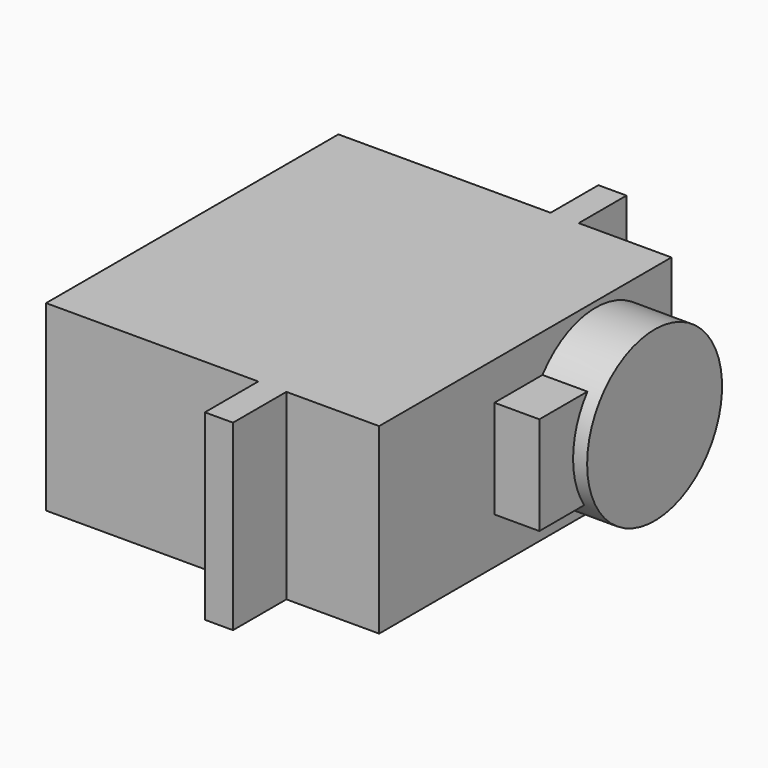
from build123d import *

# Parameters (mm, degrees)
BOX010_W                  = 10
BOX010_H                  = 10
BOX010_DEPTH              = 7
CYLINDER003_R             = 6
CYLINDER003_DEPTH         = 6
CYLINDER003_ROLL_ANGLE    = 90
BOX009_W                  = 26
BOX009_H                  = 23.7
BOX009_DEPTH              = 13
BOX008_W                  = 35
BOX008_H                  = 2
BOX008_DEPTH              = 13
FUSION005_PLACEMENT_ANGLE = -90


with BuildPart() as cube002:
    # Box010 → Box010 (new body)
    with BuildSketch(Plane(origin=(-32, 3.3, 1.3), x_dir=(1, 0, 0), z_dir=(0, 0, 1))):
        with Locations((5, 5)):
            Rectangle(BOX010_W, BOX010_H)
    extrude(amount=BOX010_DEPTH)


with BuildPart() as cylinder003:
    # Cylinder003 → Cylinder003 (new body)
    with BuildSketch(Plane.XY):
        Circle(CYLINDER003_R)
    extrude(amount=CYLINDER003_DEPTH)


with BuildPart() as cylinder003_1:
    # Cylinder003 roll: moved
    add(cylinder003.part.rotate(Axis((0, 0, 0), (1, 0, 0)), CYLINDER003_ROLL_ANGLE))


with BuildPart() as cylinder003_2:
    # Cylinder003 placement: moved
    add(cylinder003_1.part.moved(Location((-31, 14.3, 4.6))))


with BuildPart() as cube001:
    # Box009 → Box009 (new body)
    with BuildSketch(Plane(origin=(-37.75, -13.6, -2), x_dir=(1, 0, 0), z_dir=(0, 0, 1))):
        with Locations((13, 11.85)):
            Rectangle(BOX009_W, BOX009_H)
    extrude(amount=BOX009_DEPTH)


with BuildPart() as simple_servo_rev_eng:
    # Box008 → Box008 (new body)
    with BuildSketch(Plane(origin=(-42, 1.5, -2), x_dir=(1, 0, 0), z_dir=(0, 0, 1))):
        with Locations((17.5, 1)):
            Rectangle(BOX008_W, BOX008_H)
    extrude(amount=BOX008_DEPTH)

    # Fusion005: union Cube002, Cylinder003, Cube001
    add(cube002.part)
    add(cylinder003_2.part)
    add(cube001.part)


with BuildPart() as simple_servo_rev_eng_1:
    # Fusion005 placement: moved
    add(simple_servo_rev_eng.part.moved(Location((-8.1, -4, 11))).rotate(Axis((-8.1, -4, 11), (0, 0, 1)), FUSION005_PLACEMENT_ANGLE))


solid = simple_servo_rev_eng_1.part
